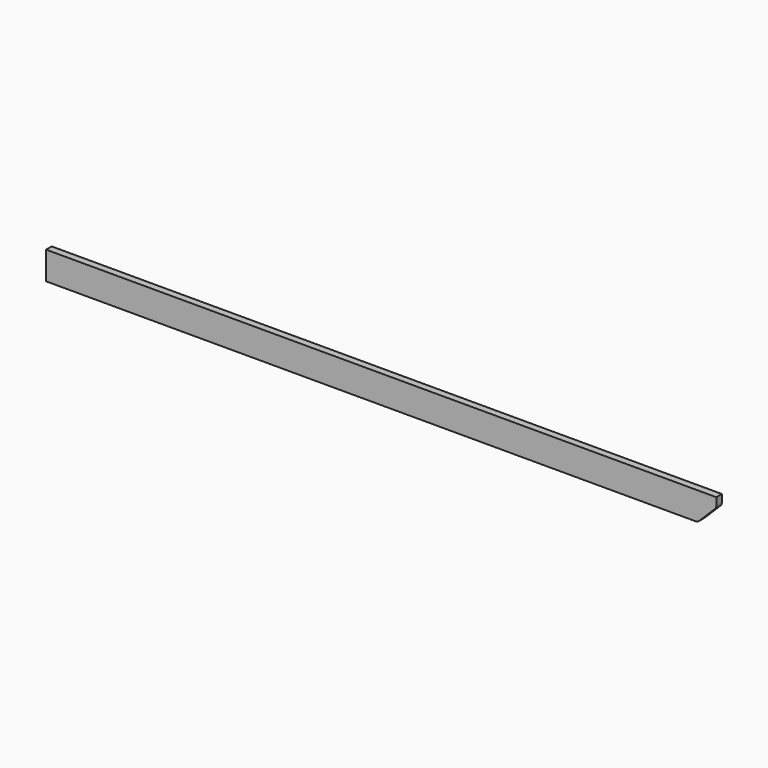
from build123d import *

# Parameters (mm, degrees)
F0_W     = 38.1
F0_H     = 152.4
F1_DEPTH = 3657.6
F2_SIZE  = 101.6
F3_R     = 25.4


with BuildPart() as f1:
    # F0 (on Right) → F1 (new body)
    with BuildSketch(Plane.YZ):
        with Locations((-28.3922934905, 37.7108814793)):
            Rectangle(F0_W, F0_H)
    extrude(amount=F1_DEPTH)

    # F2
    f2_edges = [f1.edges().sort_by_distance(p)[0] for p in [
        (3657.6, -28.392293, -38.489119),
    ]]
    chamfer(f2_edges, length=F2_SIZE)

    # F3
    f3_edges = [f1.edges().sort_by_distance(p)[0] for p in [
        (3657.6, -28.392293, 63.110881),
        (3556, -28.392293, -38.489119),
    ]]
    fillet(f3_edges, radius=F3_R)


solid = f1.part
